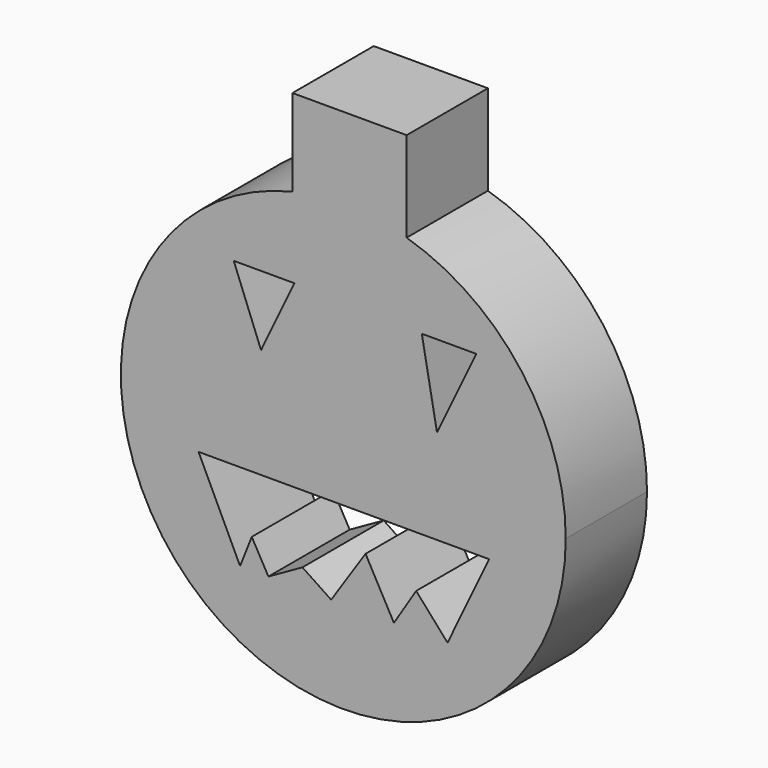
from build123d import *

# Parameters (mm, degrees)
F1_DEPTH = 21.59


with BuildPart() as f1:
    # F0 (on Front) → F1 (new body)
    with BuildSketch(Plane.XZ):
        with BuildLine():
            ThreePointArc((-10.797004, 46.017036), (-29.358167, -37.04377), (47.266721, 0))
            ThreePointArc((47.266721, 0), (37.883659, 28.26608), (13.459793, 45.309787))
            ThreePointArc((13.459793, 45.309787), (1.377556, 47.246642), (-10.797004, 46.017036))
        make_face()
        Polygon((-21.938005, -27.637864), (-30.756533, -9.140927), (30.971617, -9.140927), (22.153305, -27.637864), (15.485808, -20.110041), (10.754033, -27.637864), (4.731775, -16.66875), (-2.580968, -27.637864), (-8.685948, -23.567876), (-15.915968, -27.637864), (-19.450383, -21.359246), align=None, mode=Mode.SUBTRACT)
        Polygon((-17.476864, 14.204149), (-23.277488, 29.029656), (-10.387212, 29.029656), align=None, mode=Mode.SUBTRACT)
        Polygon((19.90493, 10.981212), (16.682357, 28.385067), (28.283602, 28.385067), align=None, mode=Mode.SUBTRACT)
        with BuildLine():
            ThreePointArc((-10.797004, 46.017036), (1.377556, 47.246642), (13.459793, 45.309787))
            Line((13.459793, 45.309787), (13.459793, 64.481946))
            Line((13.459793, 64.481946), (-10.797004, 64.481946))
            Line((-10.797004, 64.481946), (-10.797004, 46.017036))
        make_face()
    extrude(amount=-F1_DEPTH)


solid = f1.part
